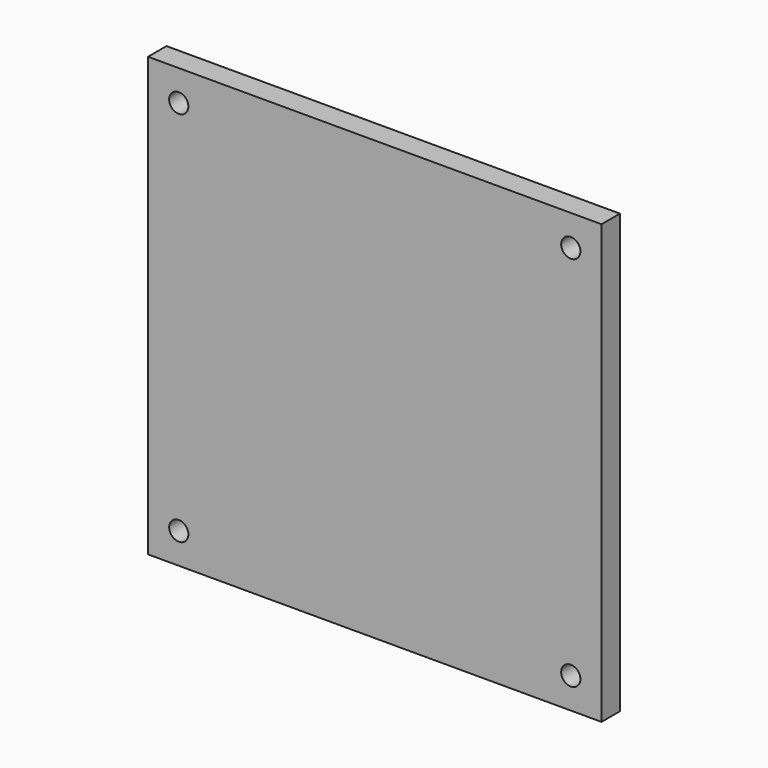
from build123d import *

# Parameters (mm, degrees)
F0_W     = 59
F0_H     = 57
F0_W_2   = 55
F0_H_2   = 53
F0_R     = 1.25
F1_DEPTH = 3


with BuildPart() as f1:
    # F0 (on Front) → F1 (new body)
    with BuildSketch(Plane.XZ):
        with Locations((-0.166804, 28.5)):
            Rectangle(F0_W, F0_H)
        with Locations((-0.166804, 28.5)):
            Rectangle(F0_W_2, F0_H_2, mode=Mode.SUBTRACT)
        with Locations((-0.166804, 28.5)):
            Rectangle(F0_W_2, F0_H_2)
        with Locations((-25.666804, 4)):
            Circle(F0_R, mode=Mode.SUBTRACT)
        with Locations((25.333196, 4)):
            Circle(F0_R, mode=Mode.SUBTRACT)
        with Locations((-25.666804, 53)):
            Circle(F0_R, mode=Mode.SUBTRACT)
        with Locations((25.333196, 53)):
            Circle(F0_R, mode=Mode.SUBTRACT)
    extrude(amount=F1_DEPTH)


solid = f1.part
